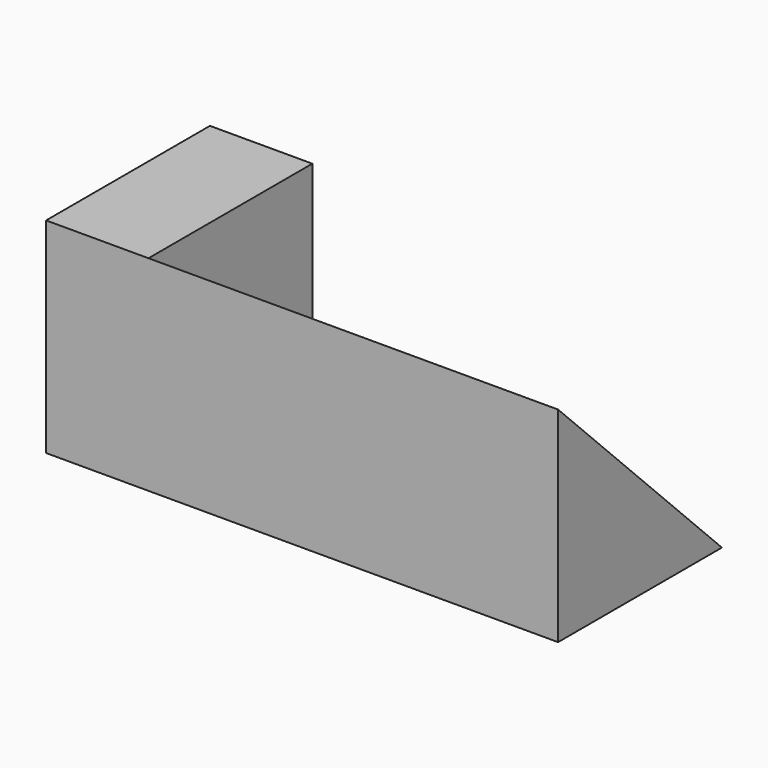
from build123d import *

# Parameters (mm, degrees)
F0_W     = 50
F0_H     = 20
F1_DEPTH = 20
F3_DEPTH = 40


with BuildPart() as f1:
    # F0 (on Top) → F1 (new body)
    with BuildSketch(Plane.XY):
        Rectangle(F0_W, F0_H)
    extrude(amount=F1_DEPTH)

    # F2 (on face) → F3 (cut)
    with BuildSketch(Plane.YZ.offset(25)):
        Polygon((10, 20), (-10, 20), (10, 0), align=None)
    extrude(amount=-F3_DEPTH, mode=Mode.SUBTRACT)


solid = f1.part
